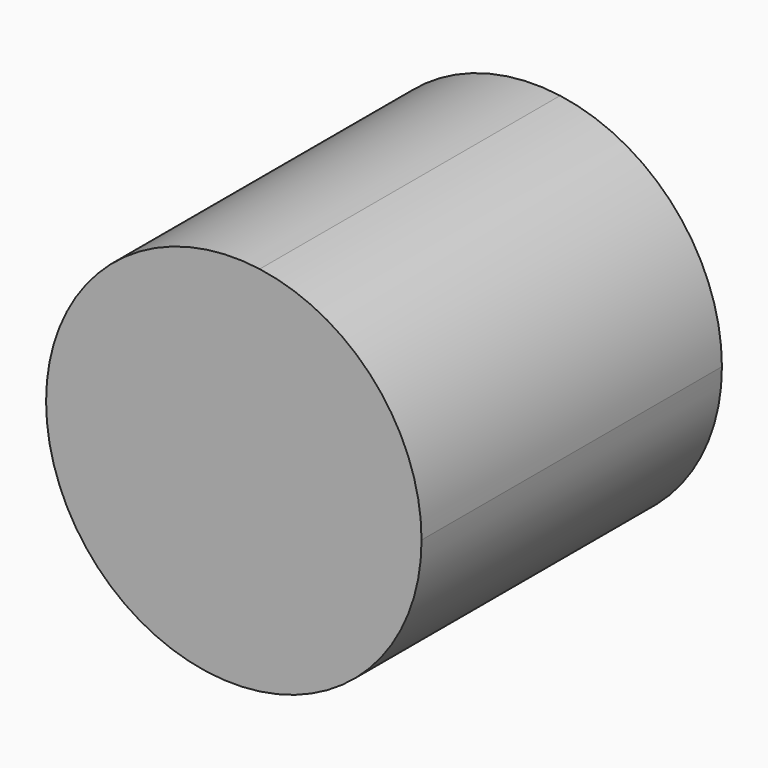
from build123d import *

# Parameters (mm, degrees)
F1_DEPTH = 2.54


with BuildPart() as f1:
    # F0 (on Front) → F1 (new body)
    with BuildSketch(Plane.XZ):
        with BuildLine():
            Line((0, 70.949999959), (0, 72.2078551948))
            ThreePointArc((0, 72.2078551948), (-1.0089944723, 71.9079724853), (-1.4452147418, 70.949999959))
            Line((-1.4452147418, 70.949999959), (0, 70.949999959))
        make_face()
        with BuildLine():
            ThreePointArc((1.0947852582, 70.949999959), (0.7827577844, 71.7837796895), (0, 72.2078551948))
            Line((0, 72.2078551948), (0, 70.949999959))
            Line((0, 70.949999959), (1.0947852582, 70.949999959))
        make_face()
        with BuildLine():
            Line((0, 70.949999959), (0, 69.6921447232))
            ThreePointArc((0, 69.6921447232), (0.7827577844, 70.1162202285), (1.0947852582, 70.949999959))
            Line((1.0947852582, 70.949999959), (0, 70.949999959))
        make_face()
        with BuildLine():
            ThreePointArc((-1.4452147418, 70.949999959), (-1.0089944723, 69.9920274327), (0, 69.6921447232))
            Line((0, 69.6921447232), (0, 70.949999959))
            Line((0, 70.949999959), (-1.4452147418, 70.949999959))
        make_face()
    extrude(amount=-F1_DEPTH)


solid = f1.part
